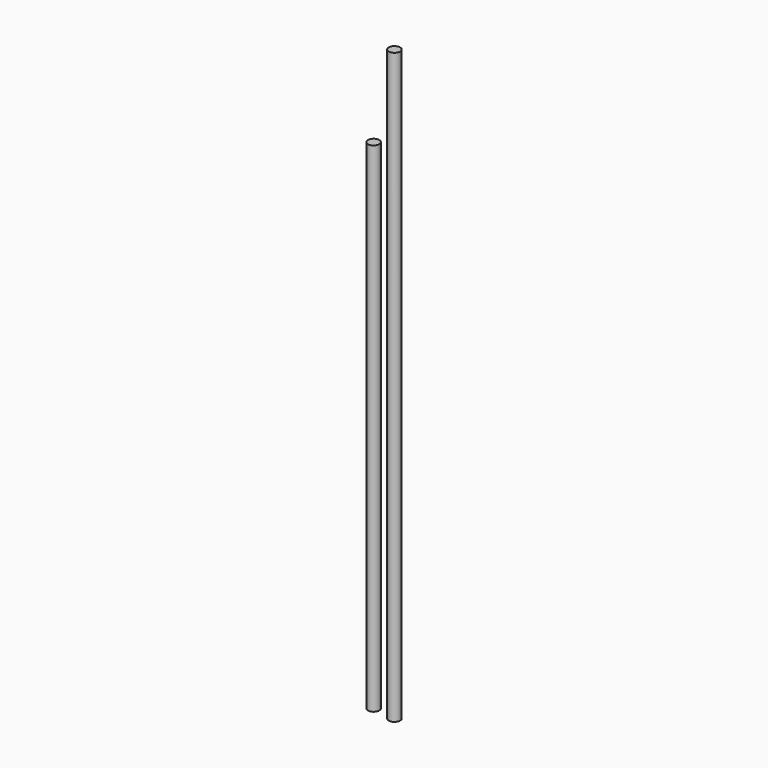
from build123d import *

# Parameters (mm, degrees)
F0_R     = 4
F1_DEPTH = 350
F2_DEPTH = 413.5


with BuildPart() as f1:
    # F0 (on Top) → F1 (new body)
    with BuildSketch(Plane.XY):
        Circle(F0_R)
    extrude(amount=F1_DEPTH)


with BuildPart() as f2:
    # F0 (on Top) → F2 (new body)
    with BuildSketch(Plane.XY):
        with Locations((16.458958, -2.248807)):
            Circle(F0_R)
    extrude(amount=F2_DEPTH)


solid = Compound([f1.part, f2.part])
